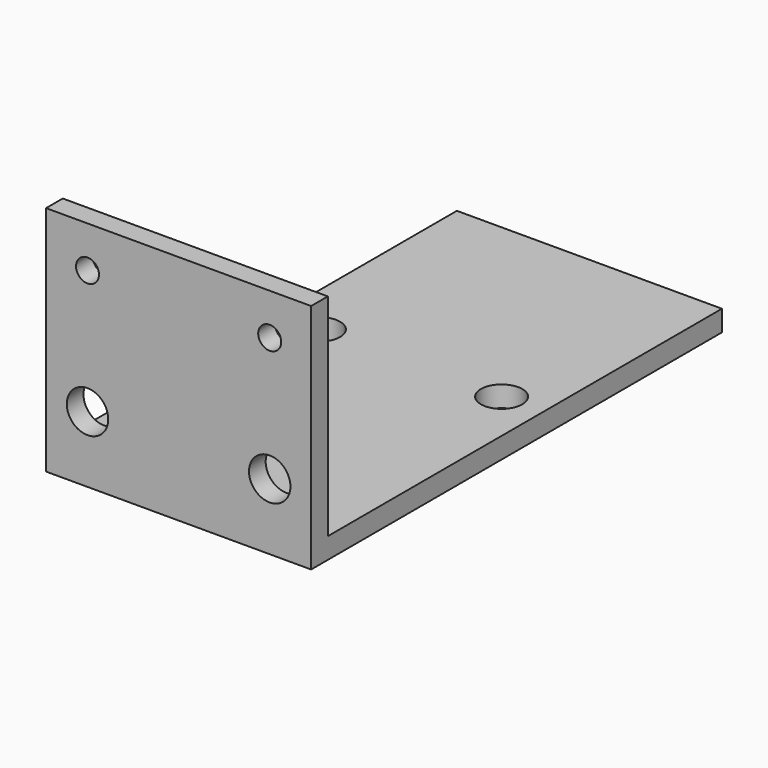
from build123d import *

# Parameters (mm, degrees)
F1_DEPTH = 12.7
F3_R     = 1.985
F3_R_2   = 1.1
F4_DEPTH = 49.211
F2_R     = 1.985
F5_DEPTH = 2.001


with BuildPart() as f1:
    # F0 (on Right) → F1 (new body, symmetric)
    with BuildSketch(Plane.YZ):
        Polygon((-22.605, -9.115), (-22.605, 11.115), (-24.605, 11.115), (-24.605, -11.115), (24.605, -11.115), (24.605, -9.115), align=None)
    extrude(amount=F1_DEPTH, both=True)

    # F3 (on face) → F4 (cut, through all)
    with BuildSketch(Plane.XZ.offset(24.605)):
        with Locations((8.73, -4.765)):
            Circle(F3_R)
        with Locations((8.73, 7.145)):
            Circle(F3_R_2)
        with Locations((-8.73, -4.765)):
            Circle(F3_R)
        with Locations((-8.73, 7.145)):
            Circle(F3_R_2)
    extrude(amount=-F4_DEPTH, mode=Mode.SUBTRACT)

    # F2 (on face) → F5 (cut, through all)
    with BuildSketch(Plane.XY.offset(-9.115)):
        with Locations((-8.73, 3.175)):
            Circle(F2_R)
        with Locations((8.73, 3.175)):
            Circle(F2_R)
    extrude(amount=-F5_DEPTH, mode=Mode.SUBTRACT)


solid = f1.part
